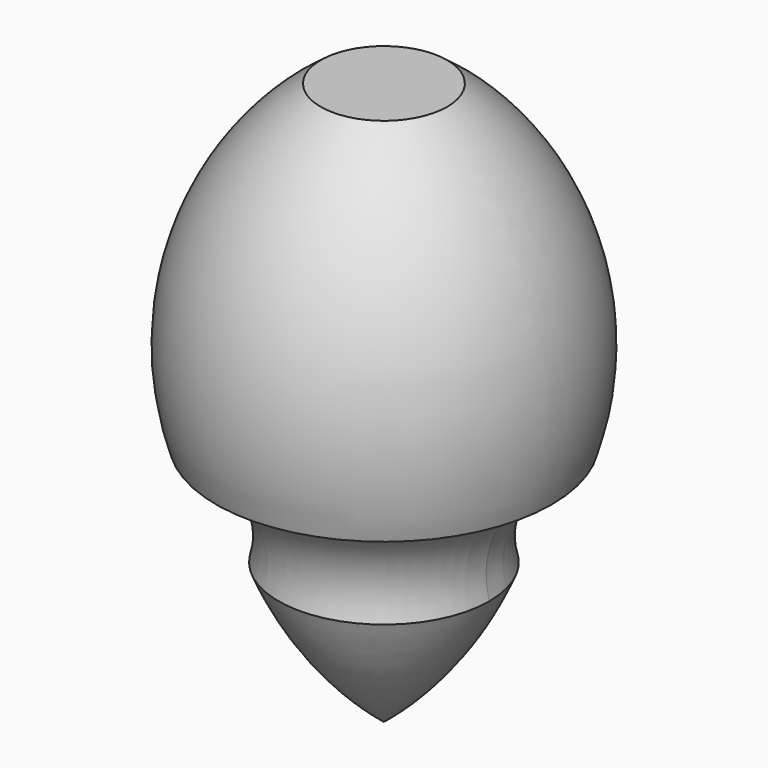
from build123d import *

# Parameters (mm, degrees)
F3_DEPTH = 1


with BuildPart() as f1:
    # F0 (on Front) → F1 (revolve)
    with BuildSketch(Plane.XZ):
        with BuildLine():
            Line((0, 80), (0, 35))
            Line((0, 35), (23.878137, 35))
            ThreePointArc((23.878137, 35), (23.821651, 59.940868), (9, 80))
            Line((9, 80), (0, 80))
        make_face()
        with BuildLine():
            Line((0, 35), (0, 20))
            Line((0, 20), (15, 20))
            ThreePointArc((15, 20), (16.211031, 29.410597), (23.878137, 35))
            Line((23.878137, 35), (0, 35))
        make_face()
        with BuildLine():
            Line((0, 20), (0, 0))
            ThreePointArc((0, 0), (8.770167, 9.047375), (15, 20))
            Line((15, 20), (0, 20))
        make_face()
    revolve(axis=Axis((0, 0, 40), (0, 0, 1)))

    # F2 (on Front) → F3 (join, symmetric)
    with BuildSketch(Plane.XZ):
        Polygon((0, 20), (0, 35), (-23.878137, 35), (-15, 20), align=None)
    extrude(amount=F3_DEPTH, both=True)


solid = f1.part
